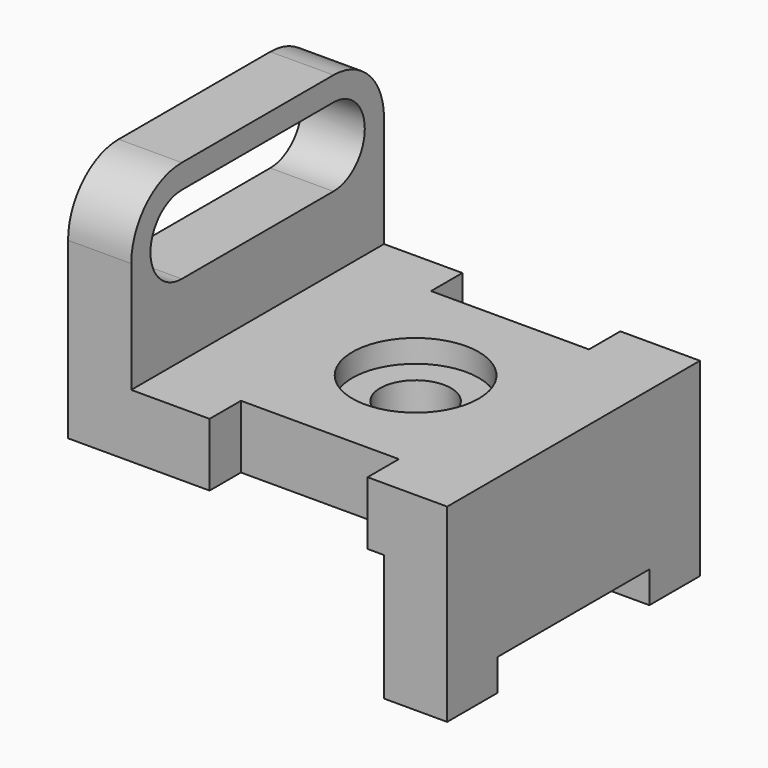
from build123d import *

# Parameters (mm, degrees)
F0_W       = 76.2
F0_H       = 38.1
F1_DEPTH   = 63.5
F3_DEPTH   = 63.501
F4_W       = 31.75
F4_H       = 12.7
F5_DEPTH   = 7.874
F6_W       = 38.1
F6_H       = 6.35
F7_DEPTH   = 76.201
F9_DEPTH   = 12.7
F10_R      = 12.7
F10_R_2    = 7.112
F11_DEPTH  = 4.572
F11_FACE_R = 7.112
F12_DEPTH  = 38.101
F13_W      = 31.75
F13_H      = 7.874
F14_DEPTH  = 38.101


with BuildPart() as f1:
    # F0 (on Front) → F1 (new body)
    with BuildSketch(Plane.XZ):
        with Locations((38.1, 19.05)):
            Rectangle(F0_W, F0_H)
    extrude(amount=F1_DEPTH)

    # F2 (on face) → F3 (cut, through all)
    with BuildSketch(Plane.XZ.offset(63.5)):
        Polygon((0, 0), (63.5, 0), (63.5, 25.4), (60.198, 25.4), (0, 25.4), align=None)
    extrude(amount=-F3_DEPTH, mode=Mode.SUBTRACT)

    # F4 (on face) → F5 (cut)
    with BuildSketch(Plane.XZ.offset(63.5)):
        with Locations((44.323, 31.75)):
            Rectangle(F4_W, F4_H)
    extrude(amount=-F5_DEPTH, mode=Mode.SUBTRACT)

    # F6 (on face) → F7 (cut, through all)
    with BuildSketch(Plane.YZ.offset(76.2)):
        with Locations((-31.75, 3.175)):
            Rectangle(F6_W, F6_H)
    extrude(amount=-F7_DEPTH, mode=Mode.SUBTRACT)

    # F8 (on Right) → F9 (join)
    with BuildSketch(Plane.YZ):
        with BuildLine():
            Line((-63.5, 38.1), (0, 38.1))
            Line((0, 38.1), (0, 60.452))
            ThreePointArc((0, 60.452), (-3.719744, 69.432256), (-12.7, 73.152))
            Line((-12.7, 73.152), (-50.8, 73.152))
            ThreePointArc((-50.8, 73.152), (-59.780256, 69.432256), (-63.5, 60.452))
            Line((-63.5, 60.452), (-63.5, 38.1))
        make_face()
        with BuildLine():
            ThreePointArc((-50.8, 52.578), (-58.674, 60.452), (-50.8, 68.326))
            Line((-50.8, 68.326), (-12.7, 68.326))
            ThreePointArc((-12.7, 68.326), (-4.826, 60.452), (-12.7, 52.578))
            Line((-12.7, 52.578), (-50.8, 52.578))
        make_face(mode=Mode.SUBTRACT)
    extrude(amount=F9_DEPTH)

    # F10 (on face) → F11 (cut)
    with BuildSketch(Plane.XY.offset(38.1)):
        with Locations((44.45, -31.75)):
            Circle(F10_R)
        with Locations((44.45, -31.75)):
            Circle(F10_R_2, mode=Mode.SUBTRACT)
    extrude(amount=-F11_DEPTH, mode=Mode.SUBTRACT)

    # F11_face (on face) → F12 (cut, through all)
    with BuildSketch(Plane(origin=(44.45, -31.75, 38.1), x_dir=(1, 0, 0), z_dir=(0, 0, 1))):
        Circle(F11_FACE_R)
    extrude(amount=-F12_DEPTH, mode=Mode.SUBTRACT)

    # F13 (on face) → F14 (cut, through all)
    with BuildSketch(Plane.XY.offset(38.1)):
        with Locations((44.323, -3.937)):
            Rectangle(F13_W, F13_H)
    extrude(amount=-F14_DEPTH, mode=Mode.SUBTRACT)


solid = f1.part
